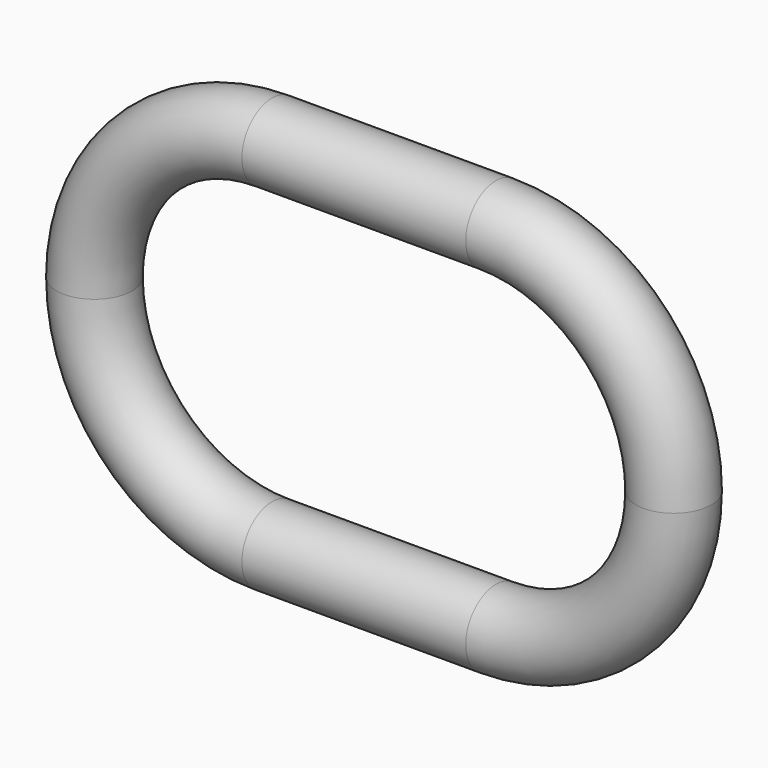
from build123d import *

# Parameters (mm, degrees)
F1_R = 13.5


with BuildPart() as f2:
    # F2: sweep along a path in F0
    with BuildLine(Plane.XZ) as f2_path:
        Line((40, 50), (-40, 50))
        ThreePointArc((-40, 50), (-75.355339, 35.355339), (-90, 0))
        ThreePointArc((-90, 0), (-75.355339, -35.355339), (-40, -50))
        Line((-40, -50), (40, -50))
        ThreePointArc((40, -50), (75.355339, -35.355339), (90, 0))
        ThreePointArc((90, 0), (75.355339, 35.355339), (40, 50))
    # F1 (on Right) → F2 (sweep)
    with BuildSketch(Plane.YZ):
        with Locations((0, 63.5)):
            Circle(F1_R)
    sweep(path=f2_path.line)


solid = f2.part
